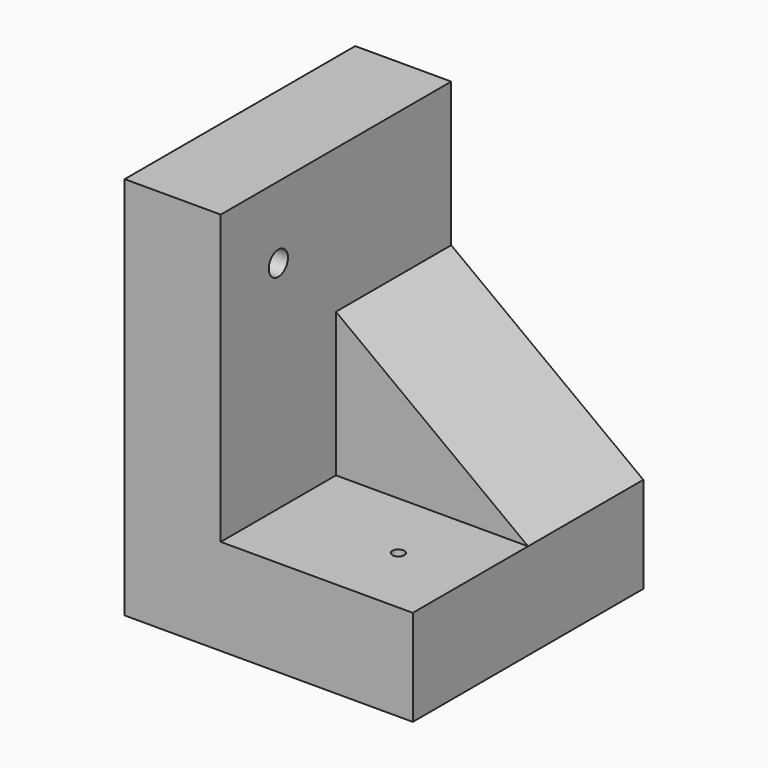
from build123d import *

# Parameters (mm, degrees)
F1_DEPTH = 152.4
F2_W     = 101.6
F2_H     = 76.2
F3_DEPTH = 76.2
F5_DEPTH = 76.2
F8_D     = 12.7
F9_D     = 6.35


with BuildPart() as f1:
    # F0 (on Front) → F1 (new body)
    with BuildSketch(Plane.XZ):
        Polygon((0, 98.280699), (-50.8, 98.280699), (-50.8, -104.919301), (101.6, -104.919301), (101.6, -54.119301), (0, -54.119301), align=None)
        Polygon((0, 98.280699), (-50.8, 98.280699), (-50.8, -104.919301), (101.6, -104.919301), (101.6, -54.119301), (0, -54.119301), align=None)
    extrude(amount=F1_DEPTH)

    # F2 (on face) → F3 (join)
    with BuildSketch(Plane.XY.offset(-54.119301)):
        with Locations((50.8, -38.1)):
            Rectangle(F2_W, F2_H)
    extrude(amount=F3_DEPTH)

    # F4 (on face) → F5 (cut)
    with BuildSketch(Plane.XZ.offset(76.2)):
        Polygon((101.6, 22.080699), (0, 22.080699), (101.6, -54.119301), align=None)
    extrude(amount=-F5_DEPTH, mode=Mode.SUBTRACT)

    # F8 (through all)
    with Locations(Plane.YZ):
        with Locations((-114.3, 60.180699)):
            Hole(F8_D / 2)

    # F9 (through all)
    with Locations(Plane.XY.offset(-54.119301)):
        with Locations((63.5, -114.3)):
            Hole(F9_D / 2)


solid = f1.part
